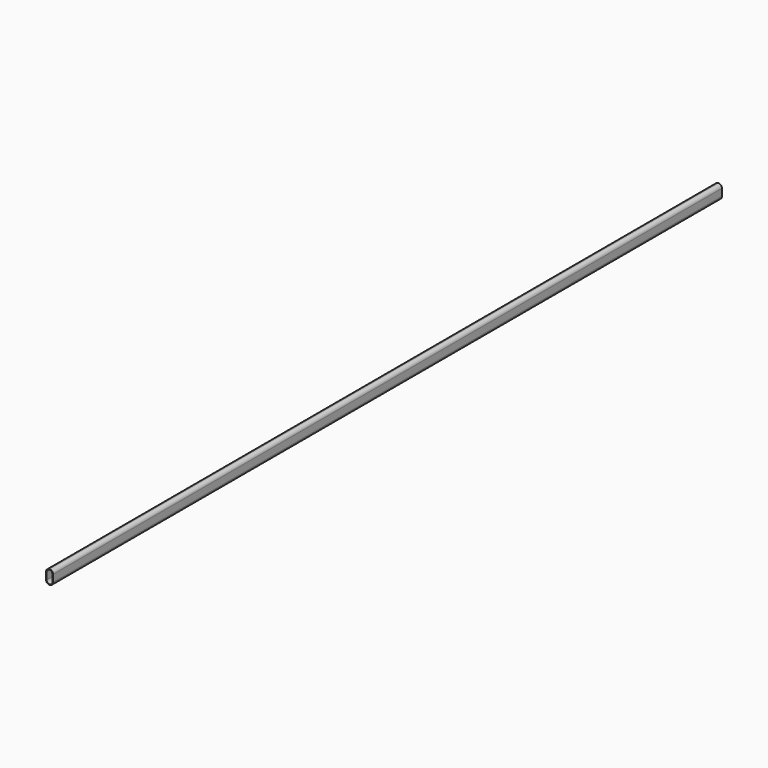
from build123d import *

# Parameters (mm, degrees)
F1_DEPTH = 1800
F2_T     = -1.2


with BuildPart() as f1:
    # F0 (on Front) → F1 (new body)
    with BuildSketch(Plane.XZ):
        with BuildLine():
            ThreePointArc((0, 15), (-5.303301, 12.803301), (-7.5, 7.5))
            Line((-7.5, 7.5), (-7.5, -7.5))
            ThreePointArc((-7.5, -7.5), (-5.303301, -12.803301), (0, -15))
            ThreePointArc((0, -15), (5.303301, -12.803301), (7.5, -7.5))
            Line((7.5, -7.5), (7.5, 7.5))
            ThreePointArc((7.5, 7.5), (5.303301, 12.803301), (0, 15))
        make_face()
        with BuildLine():
            ThreePointArc((0, 15), (-5.303301, 12.803301), (-7.5, 7.5))
            Line((-7.5, 7.5), (-7.5, -7.5))
            ThreePointArc((-7.5, -7.5), (-5.303301, -12.803301), (0, -15))
            ThreePointArc((0, -15), (5.303301, -12.803301), (7.5, -7.5))
            Line((7.5, -7.5), (7.5, 7.5))
            ThreePointArc((7.5, 7.5), (5.303301, 12.803301), (0, 15))
        make_face()
    extrude(amount=F1_DEPTH)

    # F2
    f2_openings = [f1.faces().sort_by_distance(p)[0] for p in [
        (0, -1800, 0),
        (0, 0, 0),
    ]]
    offset(amount=F2_T, openings=f2_openings)


solid = f1.part
